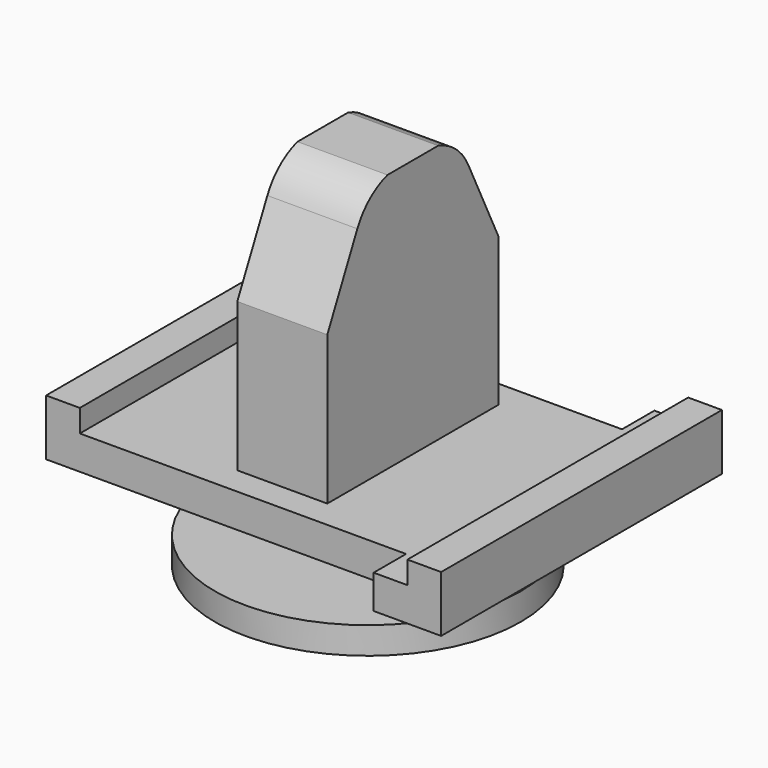
from build123d import *

# Parameters (mm, degrees)
F1_DEPTH      = 2.5
F2_W          = 16
F2_H          = 19.2862
F3_DEPTH      = 1
F5_DEPTH      = 2.3
F6_R          = 6.8
F7_DEPTH      = 1.2
F9_DEPTH      = 2
F9_DEPTH_BACK = 2


with BuildPart() as f1:
    # F0 (on Top) → F1 (new body)
    with BuildSketch(Plane.XY):
        Polygon((6.5, -7.8), (9.5, -7.8), (9.5, 7.8), (6.5, 7.8), (6.5, 6), (-9.5, 6), (-9.5, -6), (6.5, -6), align=None)
    extrude(amount=F1_DEPTH)

    # F2 (on face) → F3 (cut)
    with BuildSketch(Plane.XY.offset(2.5)):
        Rectangle(F2_W, F2_H)
    extrude(amount=-F3_DEPTH, mode=Mode.SUBTRACT)

    # F4 (on face) → F5 (join)
    with BuildSketch(Plane(origin=(0, 0, 0), x_dir=(1, 0, 0), z_dir=(0, 0, -1))):
        with BuildLine():
            Line((-2.5, 2.5), (-2.5, 0))
            ThreePointArc((-2.5, 0), (0, -2.5), (2.5, 0))
            Line((2.5, 0), (2.5, 2.5))
            Line((2.5, 2.5), (-2.5, 2.5))
        make_face()
    extrude(amount=F5_DEPTH)

    # F6 (on face) → F7 (join)
    with BuildSketch(Plane(origin=(0, 0, -2.3), x_dir=(1, 0, 0), z_dir=(0, 0, -1))):
        Circle(F6_R)
    extrude(amount=F7_DEPTH)


with BuildPart() as f9:
    # F8 (on Right) → F9 (new body, two sides)
    with BuildSketch(Plane.YZ) as f9_sk:
        with BuildLine():
            Line((-4.75, 8.108116), (-4.75, 0))
            Line((-4.75, 0), (4.75, 0))
            Line((4.75, 0), (4.75, 8.108116))
            Line((4.75, 8.108116), (3.080489, 11.57426))
            ThreePointArc((3.080489, 11.57426), (2.394246, 12.463895), (1.40684, 13))
            Line((1.40684, 13), (0, 13))
            Line((0, 13), (-1.40684, 13))
            ThreePointArc((-1.40684, 13), (-2.394246, 12.463895), (-3.080489, 11.57426))
            Line((-3.080489, 11.57426), (-4.75, 8.108116))
        make_face()
    extrude(amount=F9_DEPTH)
    extrude(f9_sk.sketch, amount=-F9_DEPTH_BACK)


solid = Compound([f1.part, f9.part])
